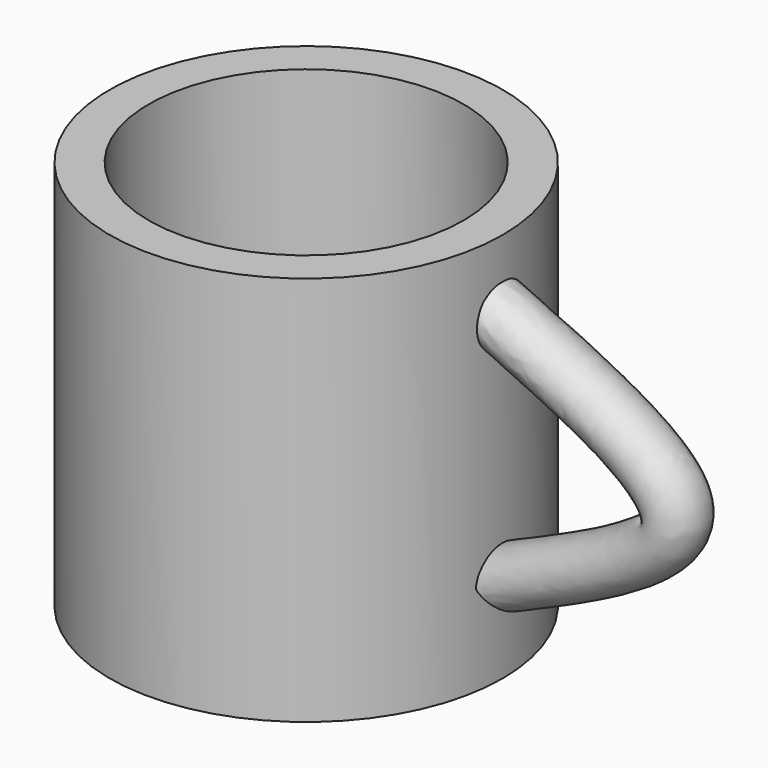
from build123d import *

# Parameters (mm, degrees)
F0_R     = 38.3699215317
F1_DEPTH = 76.2
F2_R     = 30.7295376188
F3_DEPTH = 63.5
F4_R     = 5.9443783659


with BuildPart() as f1:
    # F0 (on Top) → F1 (new body)
    with BuildSketch(Plane.XY):
        Circle(F0_R)
    extrude(amount=F1_DEPTH)

    # F2 (on face) → F3 (cut)
    with BuildSketch(Plane.XY.offset(76.2)):
        Circle(F2_R)
    extrude(amount=-F3_DEPTH, mode=Mode.SUBTRACT)


with BuildPart() as f6:
    # F6: sweep along a path in F5
    with BuildLine(Plane.XZ) as f6_path:
        add(Plane.XZ * Edge.make_bspline(
            [(0, 62.323577702), (17.070982571, 54.5376454111), (51.074803409, 39.0287872902), (16.9787614822, 24.5402913543), (0, 17.3254739493)],
            knots=[0, 0, 0, 0, 0.5020313056, 1, 1, 1, 1], degree=3))
    # F4 (on Right) → F6 (sweep)
    with BuildSketch(Plane.YZ):
        with Locations((0, 62.323577702)):
            Circle(F4_R)
    sweep(path=f6_path.line)


with BuildPart() as f6_1:
    # F7: moved
    add(f6.part.moved(Location((38.1, 0, 0))))


solid = Compound([f1.part, f6_1.part])
